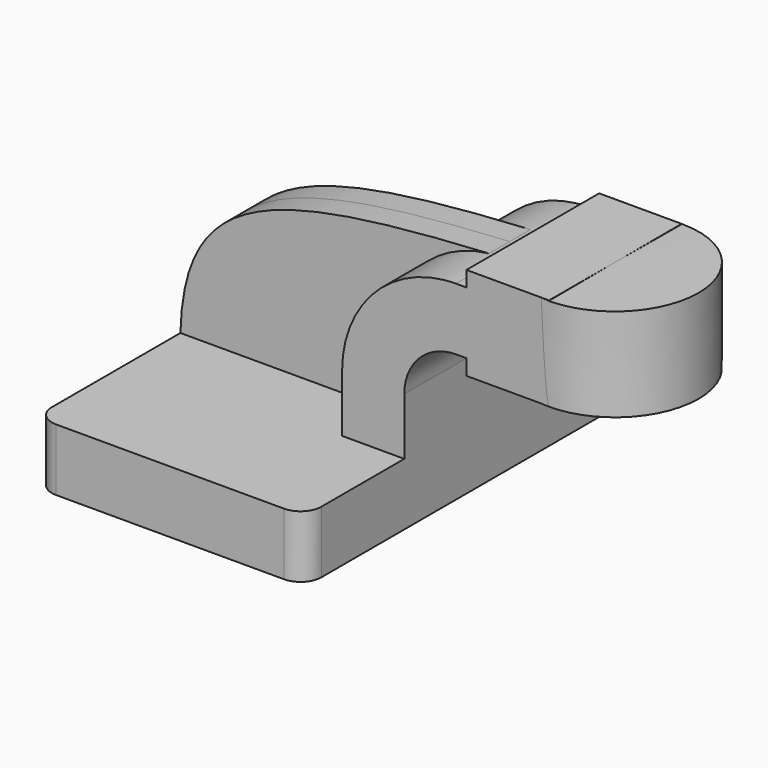
from build123d import *

# Parameters (mm, degrees)
F1_DEPTH = 63.5
F2_DEPTH = 25.4
F3_DEPTH = 7.9375
F5_R     = 6.35


with BuildPart() as f1:
    # F0 (on Front) → F1 (new body, symmetric)
    with BuildSketch(Plane.XZ):
        Polygon((41.275, -9.525), (41.275, 9.525), (22.225, 9.525), (-41.275, 9.525), (-41.275, -9.525), align=None)
    extrude(amount=F1_DEPTH, both=True)

    # F0 (on Front) → F2 (join, symmetric)
    with BuildSketch(Plane.XZ):
        with BuildLine():
            ThreePointArc((57.15, 61.9252), (55.2030666201, 61.8708907791), (53.2621882973, 61.7081320209))
            add(Edge.make_bspline(
                [(53.2621882973, 61.7081320209), (54.5429566501, 61.7819276715), (55.8388527662, 61.8542223335), (57.15, 61.9252)],
                knots=[109.4465392836, 109.4465392836, 109.4465392836, 109.4465392836, 111.5045361635, 111.5045361635, 111.5045361635, 111.5045361635], degree=3))
        make_face()
        Polygon((41.275, -9.525), (41.275, 9.525), (22.225, 9.525), (-41.275, 9.525), (-41.275, -9.525), align=None)
        with BuildLine():
            Line((22.225, 9.525), (41.275, 9.525))
            Line((41.275, 9.525), (41.275, 27.0002))
            ThreePointArc((41.275, 27.0002), (45.9246798487, 38.2255201513), (57.15, 42.8752))
            Line((57.15, 42.8752), (60.325, 42.8752))
            Line((60.325, 42.8752), (60.325, 61.9252))
            Line((60.325, 61.9252), (57.15, 61.9252))
            add(Edge.make_bspline(
                [(53.2621882973, 61.7081320209), (54.5429566501, 61.7819276715), (55.8388527662, 61.8542223335), (57.15, 61.9252)],
                knots=[109.4465392836, 109.4465392836, 109.4465392836, 109.4465392836, 111.5045361635, 111.5045361635, 111.5045361635, 111.5045361635], degree=3))
            ThreePointArc((53.2621882973, 61.7081320209), (31.11600829, 50.2808121191), (22.225, 27.0002))
            Line((22.225, 27.0002), (22.225, 9.525))
        make_face()
        Polygon((60.325, 61.9252), (60.325, 42.8752), (60.325, 38.1), (85.725, 38.1), (85.6142267585, 66.675), (60.325, 66.675), align=None)
    extrude(amount=F2_DEPTH, both=True)

    # F0 (on Front) → F3 (join, symmetric)
    with BuildSketch(Plane.XZ):
        with BuildLine():
            ThreePointArc((57.15, 61.9252), (55.2030666201, 61.8708907791), (53.2621882973, 61.7081320209))
            add(Edge.make_bspline(
                [(53.2621882973, 61.7081320209), (54.5429566501, 61.7819276715), (55.8388527662, 61.8542223335), (57.15, 61.9252)],
                knots=[109.4465392836, 109.4465392836, 109.4465392836, 109.4465392836, 111.5045361635, 111.5045361635, 111.5045361635, 111.5045361635], degree=3))
        make_face()
        Polygon((41.275, -9.525), (41.275, 9.525), (22.225, 9.525), (-41.275, 9.525), (-41.275, -9.525), align=None)
        with BuildLine():
            Line((-41.275, 9.525), (22.225, 9.525))
            Line((22.225, 9.525), (22.225, 27.0002))
            ThreePointArc((22.225, 27.0002), (31.11600829, 50.2808121191), (53.2621882973, 61.7081320209))
            add(Edge.make_bspline(
                [(-41.275, 9.525), (-40.1783672468, 49.6139237835), (-14.8504824304, 57.7835980928), (53.2621882973, 61.7081320209)],
                knots=[0, 0, 0, 0, 109.4465392836, 109.4465392836, 109.4465392836, 109.4465392836], degree=3))
        make_face()
        Polygon((60.325, 61.9252), (60.325, 42.8752), (60.325, 38.1), (85.725, 38.1), (85.6142267585, 66.675), (60.325, 66.675), align=None)
        with BuildLine():
            Line((22.225, 9.525), (41.275, 9.525))
            Line((41.275, 9.525), (41.275, 27.0002))
            ThreePointArc((41.275, 27.0002), (45.9246798487, 38.2255201513), (57.15, 42.8752))
            Line((57.15, 42.8752), (60.325, 42.8752))
            Line((60.325, 42.8752), (60.325, 61.9252))
            Line((60.325, 61.9252), (57.15, 61.9252))
            add(Edge.make_bspline(
                [(53.2621882973, 61.7081320209), (54.5429566501, 61.7819276715), (55.8388527662, 61.8542223335), (57.15, 61.9252)],
                knots=[109.4465392836, 109.4465392836, 109.4465392836, 109.4465392836, 111.5045361635, 111.5045361635, 111.5045361635, 111.5045361635], degree=3))
            ThreePointArc((53.2621882973, 61.7081320209), (31.11600829, 50.2808121191), (22.225, 27.0002))
            Line((22.225, 27.0002), (22.225, 9.525))
        make_face()
    extrude(amount=F3_DEPTH, both=True)

    # F0 (on Front) → F4 (revolve)
    with BuildSketch(Plane.XZ):
        Polygon((85.6142267585, 66.675), (85.725, 38.1), (111.125, 38.1), (111.125, 66.675), align=None)
    revolve(axis=Axis((85.6696133792, 0, 52.3875), (-0.0038765498, 0, 0.9999924862)))

    # F5
    f5_edges = [f1.edges().sort_by_distance(p)[0] for p in [
        (41.275, -63.5, 0),
        (41.275, 63.5, 0),
        (-41.275, 63.5, 0),
        (-41.275, -63.5, 0),
    ]]
    fillet(f5_edges, radius=F5_R)


solid = f1.part
